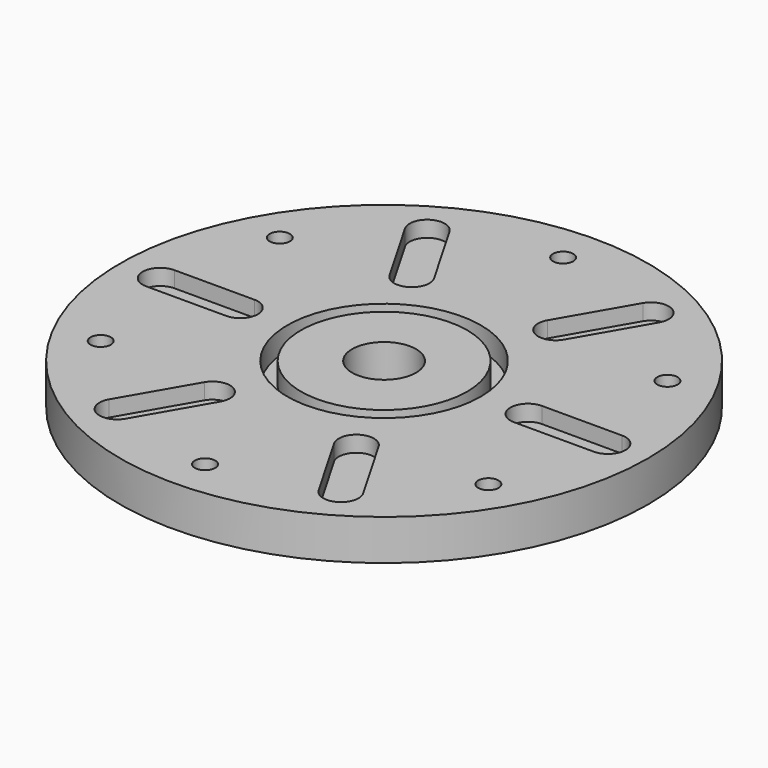
from build123d import *

# Parameters (mm, degrees)
SKETCH_R              = 82.55
PAD_DEPTH             = 12.7
SKETCH001_R           = 10
POCKET_DEPTH          = 12.701
SKETCH002_R           = 30.25
SKETCH002_R_2         = 26
POCKET001_DEPTH       = 7
SKETCH003_R           = 3.175
POCKET002_DEPTH       = 480.364597
POLARPATTERN_COUNT    = 6
POCKET003_DEPTH       = 5
POLARPATTERN001_COUNT = 6


with BuildPart() as part:
    # Sketch → Pad (new body)
    with BuildSketch(Plane.XY):
        Circle(SKETCH_R)
    extrude(amount=-PAD_DEPTH)

    # Sketch001 (on Face2 of Pad) → Pocket (cut, through all)
    with BuildSketch(Plane.XY):
        Circle(SKETCH001_R)
    extrude(amount=-POCKET_DEPTH, mode=Mode.SUBTRACT)

    # Sketch002 (on Face2 of Pocket) → Pocket001 (cut)
    with BuildSketch(Plane.XY):
        Circle(SKETCH002_R)
        Circle(SKETCH002_R_2, mode=Mode.SUBTRACT)
    extrude(amount=-POCKET001_DEPTH, mode=Mode.SUBTRACT)

    # Sketch003 (on Face2 of Pocket001) → Pocket002 (cut, through all)
    with BuildSketch(Plane.XY):
        with Locations((0, -70)):
            Circle(SKETCH003_R)
    pocket002 = extrude(amount=-POCKET002_DEPTH, mode=Mode.SUBTRACT)

    # PolarPattern: Pocket002 ×6 about axis
    polarpattern_axis = Axis((0, 0, 0), (0, 0, 1))
    for i in range(1, POLARPATTERN_COUNT):
        add(pocket002.rotate(polarpattern_axis, i * 360 / POLARPATTERN_COUNT), mode=Mode.SUBTRACT)

    # Sketch004 (on Face2 of PolarPattern) → Pocket003 (cut)
    with BuildSketch(Plane.XY):
        with BuildLine():
            ThreePointArc((-70, 5.5), (-75.5, 0), (-70, -5.5))
            Line((-70, -5.5), (-45, -5.5))
            ThreePointArc((-45, -5.5), (-39.5, 0), (-45, 5.5))
            Line((-70, 5.5), (-45, 5.5))
        make_face()
    pocket003 = extrude(amount=-POCKET003_DEPTH, mode=Mode.SUBTRACT)

    # PolarPattern001: Pocket003 ×6 about axis
    polarpattern001_axis = Axis((0, 0, 0), (0, 0, 1))
    for i in range(1, POLARPATTERN001_COUNT):
        add(pocket003.rotate(polarpattern001_axis, i * 360 / POLARPATTERN001_COUNT), mode=Mode.SUBTRACT)


solid = part.part
